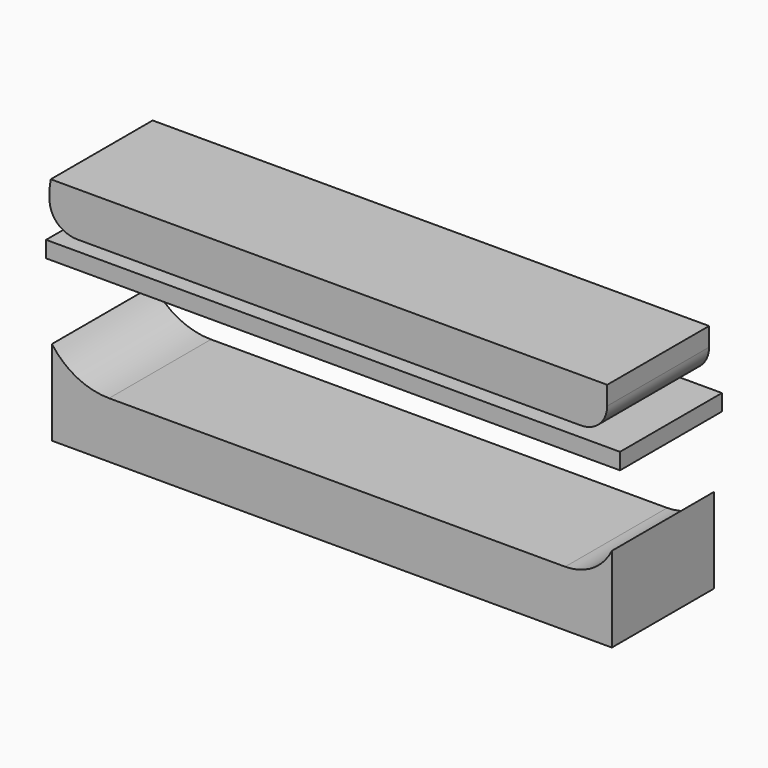
from build123d import *

# Parameters (mm, degrees)
F0_W     = 114.432908
F0_H     = 3.25622
F1_DEPTH = 25.4
F2_R     = 5.08
F3_R     = 5.08


with BuildPart() as f1:
    # F0 (on Front) → F1 (new body)
    with BuildSketch(Plane.XZ):
        with BuildLine():
            Line((-51.634364, 45.819677), (-51.866949, 44.191573))
            Line((-51.866949, 44.191573), (-51.866949, 40.470175))
            ThreePointArc((-51.866949, 40.470175), (-49.57619, 37.925309), (-46.284854, 36.981367))
            Line((-46.284854, 36.981367), (53.96023, 36.981367))
            ThreePointArc((53.96023, 36.981367), (57.091531, 37.859433), (59.309736, 40.237587))
            Line((59.309736, 40.237587), (59.309736, 45.819677))
            Line((59.309736, 45.819677), (-51.634364, 45.819677))
        make_face()
        with Locations((4.651744, 33.259971)):
            Rectangle(F0_W, F0_H)
        with BuildLine():
            ThreePointArc((-40.005002, 11.164187), (-46.402206, 12.701842), (-51.401772, 16.978865))
            Line((-51.401772, 16.978865), (-51.401772, 0))
            Line((-51.401772, 0), (60.240086, 0))
            Line((60.240086, 0), (60.240086, 16.978865))
            ThreePointArc((60.240086, 16.978865), (56.422156, 12.737424), (50.936598, 11.164187))
            Line((50.936598, 11.164187), (-40.005002, 11.164187))
        make_face()
    extrude(amount=F1_DEPTH)

    # F2
    f2_edges = [f1.edges().sort_by_distance(p)[0] for p in [
        (-51.866949, -12.7, 40.470175),
    ]]
    fillet(f2_edges, radius=F2_R)

    # F3
    f3_edges = [f1.edges().sort_by_distance(p)[0] for p in [
        (59.309736, -12.7, 40.237587),
    ]]
    fillet(f3_edges, radius=F3_R)


solid = f1.part
